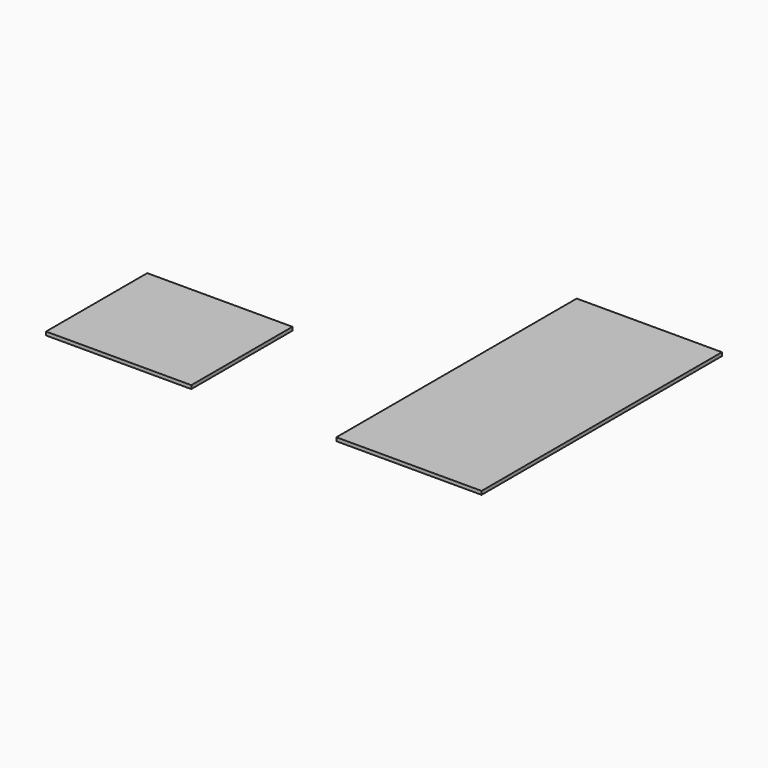
from build123d import *

# Parameters (mm, degrees)
F0_W     = 1160
F0_H     = 1010
F1_W     = 1160
F1_H     = 2400
F2_DEPTH = 28


with BuildPart() as f2:
    # F0 (on Top) + F1 (on Top) → F2 (new body)
    with BuildSketch(Plane.XY):
        with Locations((580, -505)):
            Rectangle(F0_W, F0_H)
    with BuildSketch(Plane.XY):
        with Locations((2886.527061, 205.622449)):
            Rectangle(F1_W, F1_H)
    extrude(amount=F2_DEPTH)


solid = f2.part
